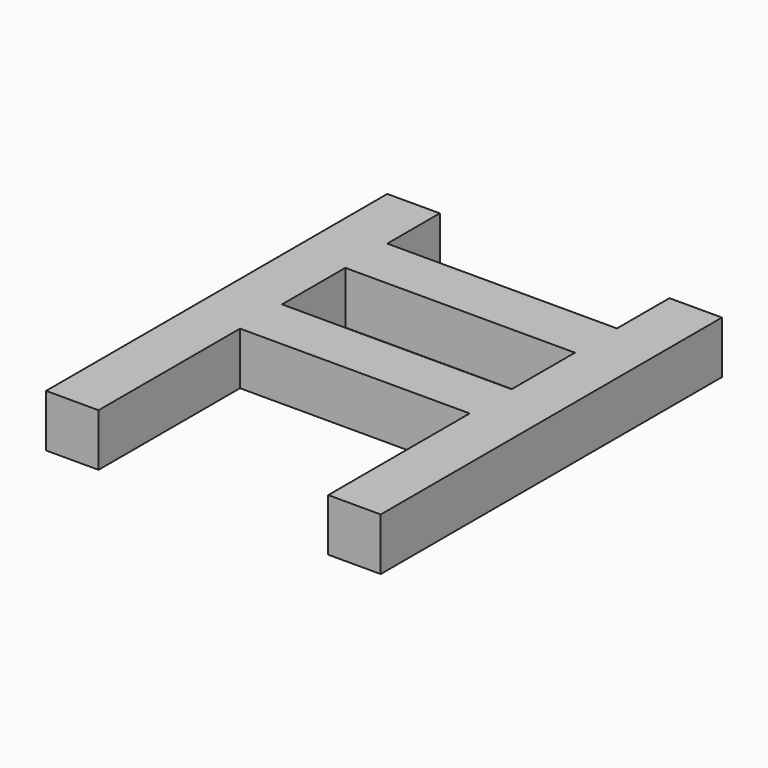
from build123d import *

# Parameters (mm, degrees)
F0_W     = 350
F0_H     = 80
F1_DEPTH = 80


with BuildPart() as f1:
    # F0 (on Top) → F1 (new body)
    with BuildSketch(Plane.XY):
        Polygon((0, 650), (0, 0), (80, 0), (80, 269.4520485401), (79.9472002188, 269.4520485401), (80, 349.4520485401), (80, 470), (80, 550), (80, 650), align=None)
        Polygon((79.9472002188, 269.4520485401), (80, 269.4520485401), (80, 349.4520485401), align=None)
        with Locations((255, 309.4520485401)):
            Rectangle(F0_W, F0_H)
        Polygon((430, 349.4520485401), (430, 269.4520485401), (430, 0), (510, 0), (510, 650), (430, 650), (430, 550), (430, 470), align=None)
        with Locations((255, 510)):
            Rectangle(F0_W, F0_H)
    extrude(amount=F1_DEPTH)


solid = f1.part
